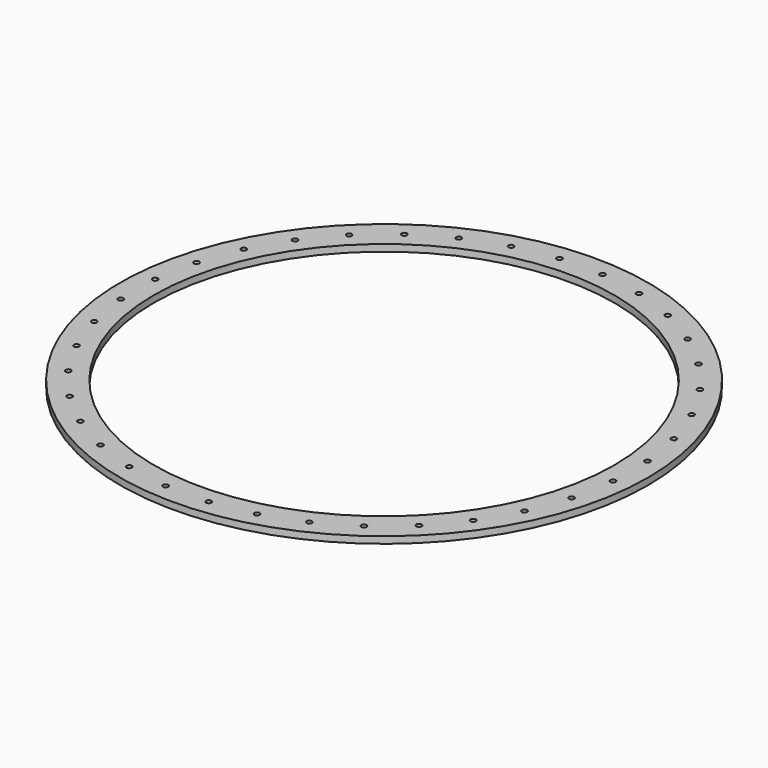
from build123d import *

# Parameters (mm, degrees)
F0_R     = 198.755
F0_R_2   = 2
F0_R_3   = 173.355
F1_DEPTH = 5.08


with BuildPart() as f1:
    # F0 (on Top) → F1 (new body)
    with BuildSketch(Plane.XY):
        Circle(F0_R)
        with Locations((-106.716764, -152.407334)):
            Circle(F0_R_2, mode=Mode.SUBTRACT)
        with Locations((-152.407334, -106.716764)):
            Circle(F0_R_2, mode=Mode.SUBTRACT)
        with Locations((-131.560752, -131.560752)):
            Circle(F0_R_2, mode=Mode.SUBTRACT)
        with Locations((-78.630241, -168.623095)):
            Circle(F0_R_2, mode=Mode.SUBTRACT)
        with Locations((-48.154577, -179.71533)):
            Circle(F0_R_2, mode=Mode.SUBTRACT)
        with Locations((-16.215762, -185.347005)):
            Circle(F0_R_2, mode=Mode.SUBTRACT)
        with Locations((-168.623095, -78.630241)):
            Circle(F0_R_2, mode=Mode.SUBTRACT)
        with Locations((-179.71533, -48.154577)):
            Circle(F0_R_2, mode=Mode.SUBTRACT)
        with Locations((-185.347005, -16.215762)):
            Circle(F0_R_2, mode=Mode.SUBTRACT)
        Circle(F0_R_3, mode=Mode.SUBTRACT)
        with Locations((16.215762, -185.347005)):
            Circle(F0_R_2, mode=Mode.SUBTRACT)
        with Locations((48.154577, -179.71533)):
            Circle(F0_R_2, mode=Mode.SUBTRACT)
        with Locations((78.630241, -168.623095)):
            Circle(F0_R_2, mode=Mode.SUBTRACT)
        with Locations((106.716764, -152.407334)):
            Circle(F0_R_2, mode=Mode.SUBTRACT)
        with Locations((131.560752, -131.560752)):
            Circle(F0_R_2, mode=Mode.SUBTRACT)
        with Locations((152.407334, -106.716764)):
            Circle(F0_R_2, mode=Mode.SUBTRACT)
        with Locations((168.623095, -78.630241)):
            Circle(F0_R_2, mode=Mode.SUBTRACT)
        with Locations((179.71533, -48.154577)):
            Circle(F0_R_2, mode=Mode.SUBTRACT)
        with Locations((185.347005, -16.215762)):
            Circle(F0_R_2, mode=Mode.SUBTRACT)
        with Locations((-185.347005, 16.215762)):
            Circle(F0_R_2, mode=Mode.SUBTRACT)
        with Locations((-179.71533, 48.154577)):
            Circle(F0_R_2, mode=Mode.SUBTRACT)
        with Locations((-168.623095, 78.630241)):
            Circle(F0_R_2, mode=Mode.SUBTRACT)
        with Locations((-152.407334, 106.716764)):
            Circle(F0_R_2, mode=Mode.SUBTRACT)
        with Locations((-131.560752, 131.560752)):
            Circle(F0_R_2, mode=Mode.SUBTRACT)
        with Locations((-106.716764, 152.407334)):
            Circle(F0_R_2, mode=Mode.SUBTRACT)
        with Locations((-78.630241, 168.623095)):
            Circle(F0_R_2, mode=Mode.SUBTRACT)
        with Locations((-48.154577, 179.71533)):
            Circle(F0_R_2, mode=Mode.SUBTRACT)
        with Locations((-16.215762, 185.347005)):
            Circle(F0_R_2, mode=Mode.SUBTRACT)
        with Locations((185.347005, 16.215762)):
            Circle(F0_R_2, mode=Mode.SUBTRACT)
        with Locations((179.71533, 48.154577)):
            Circle(F0_R_2, mode=Mode.SUBTRACT)
        with Locations((168.623095, 78.630241)):
            Circle(F0_R_2, mode=Mode.SUBTRACT)
        with Locations((16.215762, 185.347005)):
            Circle(F0_R_2, mode=Mode.SUBTRACT)
        with Locations((48.154577, 179.71533)):
            Circle(F0_R_2, mode=Mode.SUBTRACT)
        with Locations((78.630241, 168.623095)):
            Circle(F0_R_2, mode=Mode.SUBTRACT)
        with Locations((131.560752, 131.560752)):
            Circle(F0_R_2, mode=Mode.SUBTRACT)
        with Locations((152.407334, 106.716764)):
            Circle(F0_R_2, mode=Mode.SUBTRACT)
        with Locations((106.716764, 152.407334)):
            Circle(F0_R_2, mode=Mode.SUBTRACT)
    extrude(amount=F1_DEPTH)


solid = f1.part
